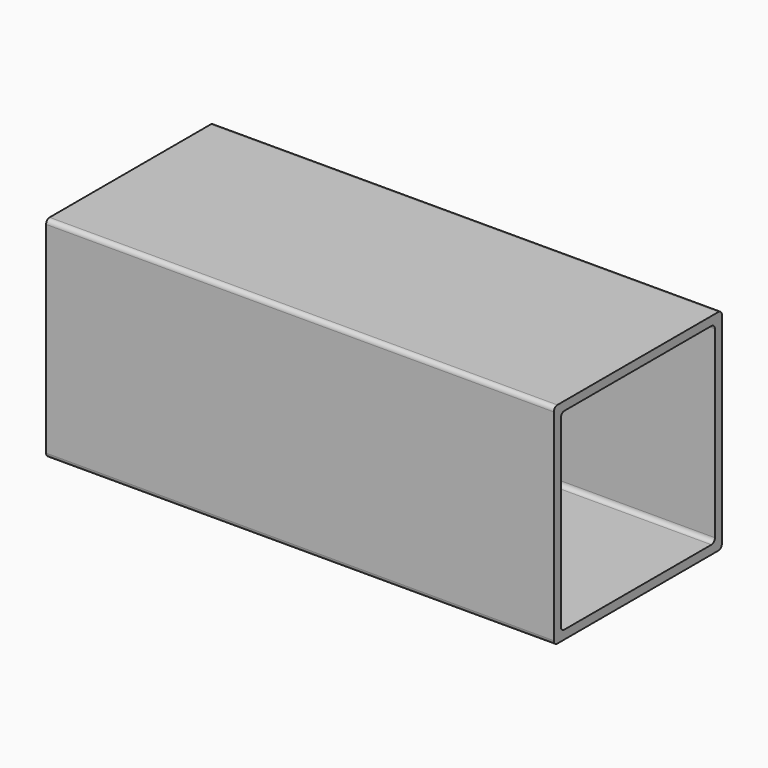
from build123d import *

# Parameters (mm, degrees)
F1_DEPTH = 368.3


with BuildPart() as f1:
    # F0 (on Right) → F1 (new body)
    with BuildSketch(Plane.YZ):
        with BuildLine():
            Line((73.025, 76.2), (-73.025, 76.2))
            ThreePointArc((-73.025, 76.2), (-75.270064, 75.270064), (-76.2, 73.025))
            Line((-76.2, 73.025), (-76.2, -73.025))
            ThreePointArc((-76.2, -73.025), (-75.270064, -75.270064), (-73.025, -76.2))
            Line((-73.025, -76.2), (73.025, -76.2))
            ThreePointArc((73.025, -76.2), (75.270064, -75.270064), (76.2, -73.025))
            Line((76.2, -73.025), (76.2, 73.025))
            ThreePointArc((76.2, 73.025), (75.270064, 75.270064), (73.025, 76.2))
        make_face()
        with BuildLine():
            Line((-69.850001, -66.674999), (-69.850001, 66.675001))
            ThreePointArc((-69.850001, 66.675001), (-68.920065, 68.920065), (-66.675001, 69.850001))
            Line((-66.675001, 69.850001), (66.675001, 69.850001))
            ThreePointArc((66.675001, 69.850001), (68.920065, 68.920065), (69.850001, 66.675001))
            Line((69.850001, 66.675001), (69.850001, -66.674999))
            ThreePointArc((69.850001, -66.674999), (68.920065, -68.920063), (66.675001, -69.849999))
            Line((66.675001, -69.849999), (-66.675001, -69.849999))
            ThreePointArc((-66.675001, -69.849999), (-68.920065, -68.920063), (-69.850001, -66.674999))
        make_face(mode=Mode.SUBTRACT)
    extrude(amount=F1_DEPTH)


solid = f1.part
